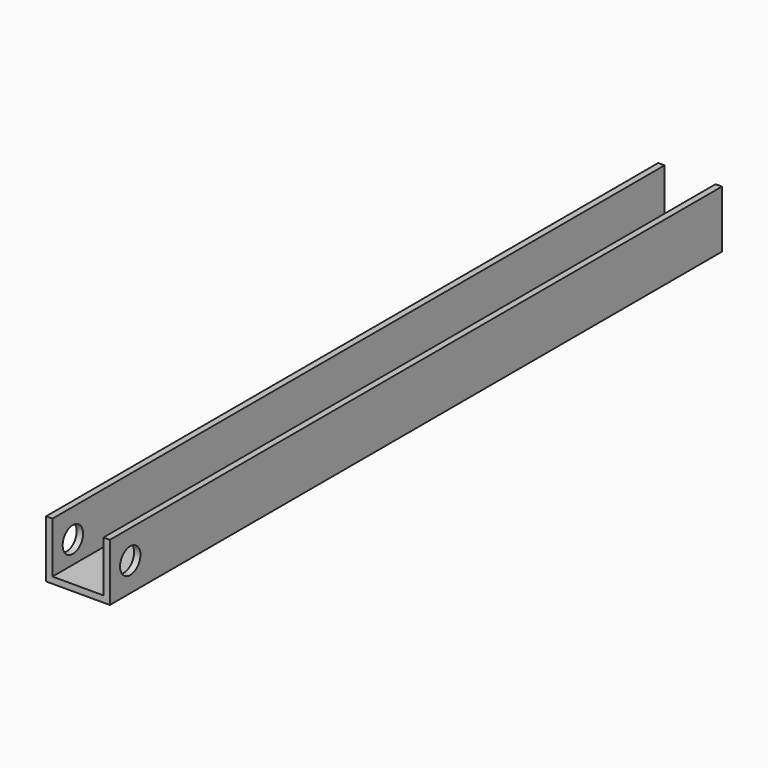
from build123d import *

# Parameters (mm, degrees)
F1_DEPTH = 300
F4_R     = 5
F5_DEPTH = 84


with BuildPart() as f1:
    # F0 (on Front) → F1 (new body)
    with BuildSketch(Plane.XZ):
        Polygon((-74.9858543277, 22.5), (-74.9858543277, 0), (-49.9858543277, 0), (-49.9858543277, 22.5), (-52.4858543277, 22.5), (-52.4858543277, 20), (-52.4858543277, 2.5), (-72.4858543277, 2.5), (-72.4858543277, 20), (-72.4858543277, 22.5), align=None)
    extrude(amount=F1_DEPTH)

    # F4 (on offset) → F5 (cut)
    with BuildSketch(Plane.YZ.offset(-24.9858543277)):
        with Locations((-290, 11.25)):
            Circle(F4_R)
    extrude(amount=-F5_DEPTH, mode=Mode.SUBTRACT)


solid = f1.part
